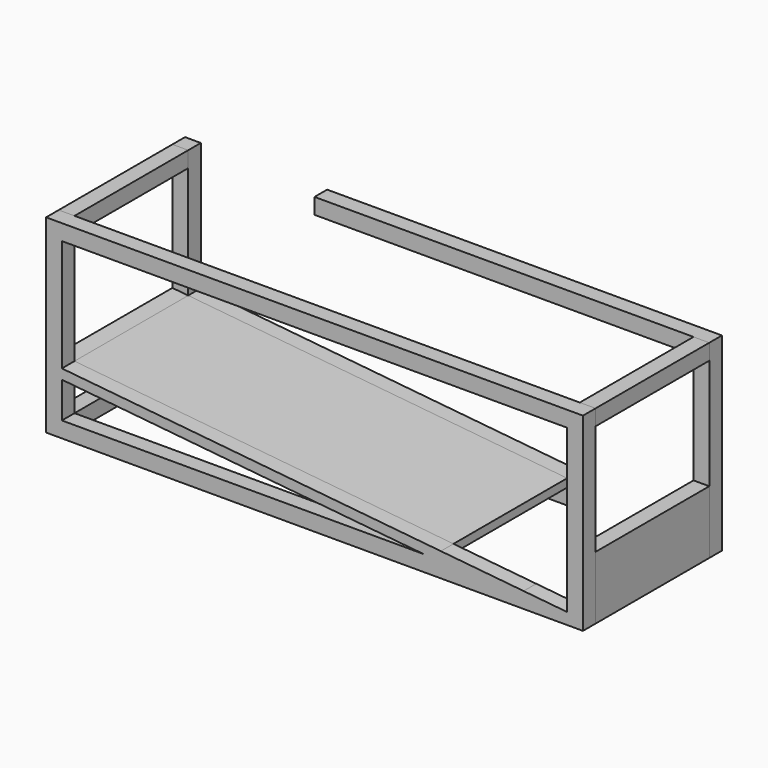
from build123d import *

# Parameters (mm, degrees)
F0_W     = 6.35
F0_H     = 6.35
F1_DEPTH = 6.35
F0_H_2   = 44.45
F0_W_2   = 152.4
F2_START = 57.15
F0_W_3   = 50.8
F2_DEPTH = 6.35
F3_DEPTH = 57.15


with BuildPart() as f1:
    # F0 (on Front) → F1 (new body)
    with BuildSketch(Plane.XZ):
        Polygon((158.75, 9.6513603842), (6.35, 24.7700544154), (6.35, 20.7882042928), (151.8905030152, 6.35), (158.75, 6.35), align=None)
        Polygon((6.35, 24.7700544154), (0, 25.4), (0, 21.4181498774), (6.35, 20.7882042928), align=None)
        Polygon((6.35, 28.7519045379), (0, 29.3818501226), (0, 25.4), (6.35, 24.7700544154), align=None)
        Polygon((6.35, 69.85), (0, 69.85), (0, 29.3818501226), (6.35, 28.7519045379), align=None)
        with Locations((3.175, 73.025)):
            Rectangle(F0_W, F0_H)
        Polygon((6.35, 20.7882042928), (0, 21.4181498774), (0, 6.35), (6.35, 6.35), align=None)
        with Locations((3.175, 3.175)):
            Rectangle(F0_W, F0_H)
        Polygon((158.75, 6.35), (151.8905030152, 6.35), (158.75, 5.6695102617), align=None)
        Polygon((151.8905030152, 6.35), (6.35, 6.35), (6.35, 0), (158.75, 0), (158.75, 5.6695102617), align=None)
    extrude(amount=-F1_DEPTH)


with BuildPart() as f1b:
    # F0 (on Front) → F1, piece 2 (new body)
    with BuildSketch(Plane.XZ):
        with Locations((212.725, 73.025)):
            Rectangle(F0_W, F0_H)
        with Locations((212.725, 47.625)):
            Rectangle(F0_W, F0_H_2)
        Polygon((215.9, 25.4), (209.55, 25.4), (209.55, 8.5936458298), (215.9, 7.9637002451), align=None)
        Polygon((215.9, 7.9637002451), (209.55, 8.5936458298), (209.55, 6.35), (215.9, 6.35), align=None)
        Polygon((215.9, 6.35), (209.55, 6.35), (209.55, 4.6117957072), (215.9, 3.9818501226), align=None)
        Polygon((215.9, 0), (209.55, 0.6299455846), (209.55, 0), align=None)
        Polygon((215.9, 3.9818501226), (209.55, 4.6117957072), (209.55, 0.6299455846), (215.9, 0), align=None)
        with Locations((133.35, 73.025)):
            Rectangle(F0_W_2, F0_H)
    extrude(amount=-F1_DEPTH)


with BuildPart() as f2:
    # F0 (on Front) → F2 (new body)
    with BuildSketch(Plane.XZ.offset(F2_START)):
        Polygon((215.9, 3.9818501226), (209.55, 4.6117957072), (209.55, 0.6299455846), (215.9, 0), align=None)
        Polygon((215.9, 0), (209.55, 0.6299455846), (209.55, 0), align=None)
        Polygon((209.55, 0.6299455846), (158.75, 5.6695102617), (158.75, 0), (209.55, 0), align=None)
        Polygon((209.55, 4.6117957072), (192.0284909545, 6.35), (158.75, 6.35), (158.75, 5.6695102617), (209.55, 0.6299455846), align=None)
        Polygon((192.0284909545, 6.35), (158.75, 9.6513603842), (158.75, 6.35), align=None)
        Polygon((158.75, 9.6513603842), (6.35, 24.7700544154), (6.35, 20.7882042928), (151.8905030152, 6.35), (158.75, 6.35), align=None)
        Polygon((158.75, 6.35), (151.8905030152, 6.35), (158.75, 5.6695102617), align=None)
        Polygon((151.8905030152, 6.35), (6.35, 6.35), (6.35, 0), (158.75, 0), (158.75, 5.6695102617), align=None)
        Polygon((215.9, 25.4), (209.55, 25.4), (209.55, 8.5936458298), (215.9, 7.9637002451), align=None)
        Polygon((215.9, 6.35), (209.55, 6.35), (209.55, 4.6117957072), (215.9, 3.9818501226), align=None)
        Polygon((215.9, 7.9637002451), (209.55, 8.5936458298), (209.55, 6.35), (215.9, 6.35), align=None)
        with Locations((212.725, 47.625)):
            Rectangle(F0_W, F0_H_2)
        with Locations((212.725, 73.025)):
            Rectangle(F0_W, F0_H)
        with Locations((133.35, 73.025)):
            Rectangle(F0_W_2, F0_H)
        with Locations((3.175, 3.175)):
            Rectangle(F0_W, F0_H)
        Polygon((6.35, 20.7882042928), (0, 21.4181498774), (0, 6.35), (6.35, 6.35), align=None)
        Polygon((6.35, 24.7700544154), (0, 25.4), (0, 21.4181498774), (6.35, 20.7882042928), align=None)
        Polygon((6.35, 28.7519045379), (0, 29.3818501226), (0, 25.4), (6.35, 24.7700544154), align=None)
        Polygon((6.35, 69.85), (0, 69.85), (0, 29.3818501226), (6.35, 28.7519045379), align=None)
        with Locations((3.175, 73.025)):
            Rectangle(F0_W, F0_H)
        with Locations((31.75, 73.025)):
            Rectangle(F0_W_3, F0_H)
    extrude(amount=F2_DEPTH)


with BuildPart() as f3:
    # F0 (on Front) → F3 (new body)
    with BuildSketch(Plane.XZ):
        with Locations((212.725, 73.025)):
            Rectangle(F0_W, F0_H)
    extrude(amount=F3_DEPTH)


with BuildPart() as f3b:
    # F0 (on Front) → F3, piece 2 (new body)
    with BuildSketch(Plane.XZ):
        Polygon((215.9, 0), (209.55, 0.6299455846), (209.55, 0), align=None)
        Polygon((215.9, 3.9818501226), (209.55, 4.6117957072), (209.55, 0.6299455846), (215.9, 0), align=None)
        Polygon((215.9, 6.35), (209.55, 6.35), (209.55, 4.6117957072), (215.9, 3.9818501226), align=None)
        Polygon((215.9, 7.9637002451), (209.55, 8.5936458298), (209.55, 6.35), (215.9, 6.35), align=None)
        Polygon((215.9, 25.4), (209.55, 25.4), (209.55, 8.5936458298), (215.9, 7.9637002451), align=None)
    extrude(amount=F3_DEPTH)


with BuildPart() as f3c:
    # F0 (on Front) → F3, piece 3 (new body)
    with BuildSketch(Plane.XZ):
        with Locations((3.175, 73.025)):
            Rectangle(F0_W, F0_H)
    extrude(amount=F3_DEPTH)


with BuildPart() as f3d:
    # F0 (on Front) → F3, piece 4 (new body)
    with BuildSketch(Plane.XZ):
        with Locations((3.175, 3.175)):
            Rectangle(F0_W, F0_H)
    extrude(amount=F3_DEPTH)


with BuildPart() as f3e:
    # F0 (on Front) → F3, piece 5 (new body)
    with BuildSketch(Plane.XZ):
        Polygon((6.35, 24.7700544154), (0, 25.4), (0, 21.4181498774), (6.35, 20.7882042928), align=None)
        Polygon((158.75, 9.6513603842), (6.35, 24.7700544154), (6.35, 20.7882042928), (151.8905030152, 6.35), (158.75, 6.35), align=None)
    extrude(amount=F3_DEPTH)


solid = Compound([f1.part, f1b.part, f2.part, f3.part, f3b.part, f3c.part, f3d.part, f3e.part])
